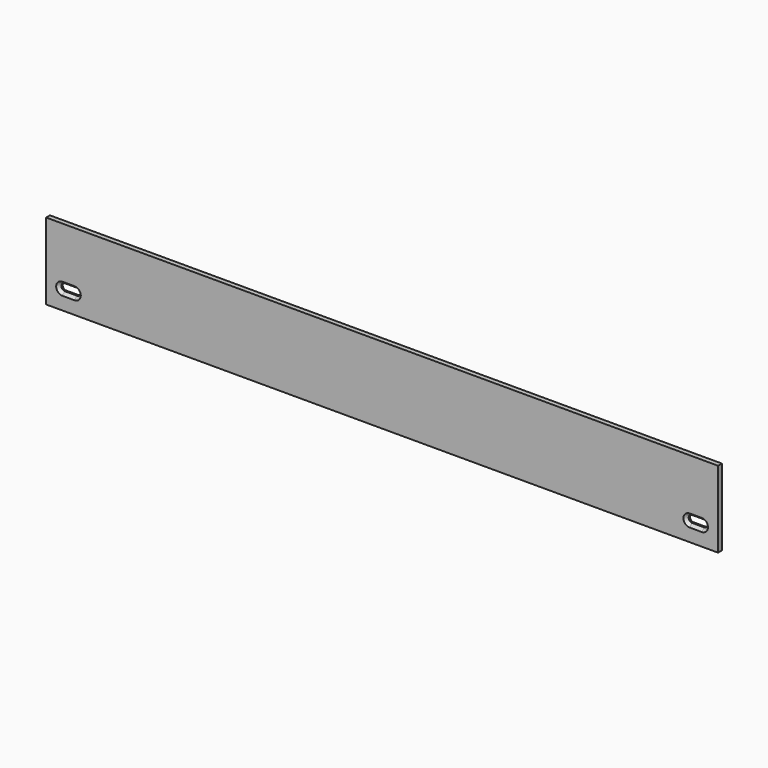
from build123d import *

# Parameters (mm, degrees)
F0_W     = 892.090368
F0_H     = 101.6
F1_DEPTH = 6.35
F2_SIZE2 = 3.621101
F2_SIZE  = 4.1656


with BuildPart() as f1:
    # F0 (on Front) → F1 (new body)
    with BuildSketch(Plane.XZ):
        Rectangle(F0_W, F0_H)
        with BuildLine():
            ThreePointArc((-424.412816, -30.0355), (-429.048316, -25.4), (-424.412816, -20.7645))
            Line((-424.412816, -20.7645), (-408.2415, -20.7645))
            ThreePointArc((-408.2415, -20.7645), (-403.606, -25.4), (-408.2415, -30.0355))
            Line((-408.2415, -30.0355), (-424.412816, -30.0355))
        make_face(mode=Mode.SUBTRACT)
        with BuildLine():
            ThreePointArc((408.283816, -30.0355), (403.648316, -25.4), (408.283816, -20.7645))
            Line((408.283816, -20.7645), (424.3705, -20.7645))
            ThreePointArc((424.3705, -20.7645), (429.006, -25.4), (424.3705, -30.0355))
            Line((424.3705, -30.0355), (408.283816, -30.0355))
        make_face(mode=Mode.SUBTRACT)
    extrude(amount=F1_DEPTH)

    # F2
    f2_edges = [f1.edges().sort_by_distance(p)[0] for p in [
        (-416.327158, -6.35, -20.7645),
        (416.327158, -6.35, -20.7645),
    ]]
    chamfer(f2_edges, length=F2_SIZE, length2=F2_SIZE2)


solid = f1.part
